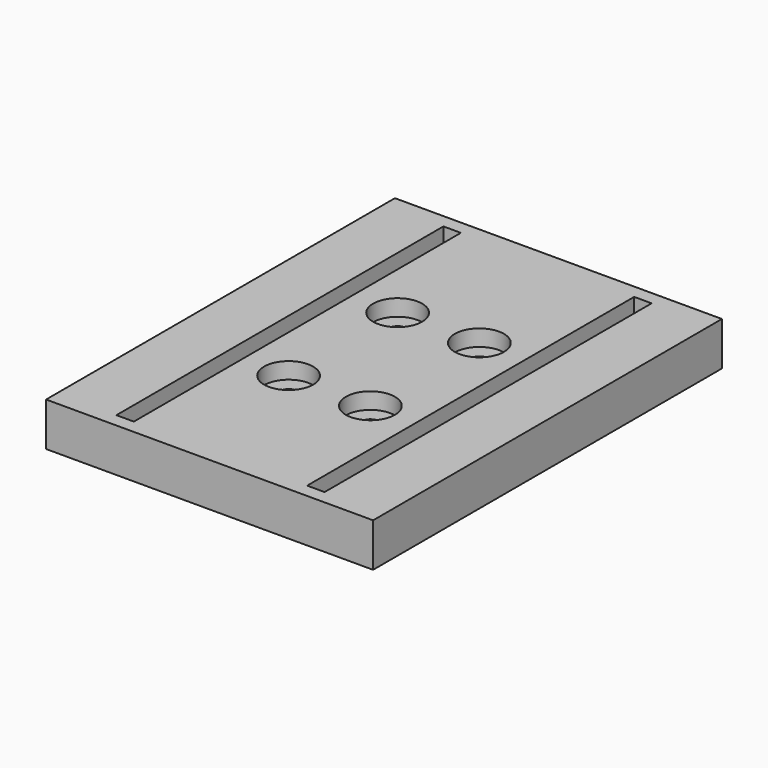
from build123d import *

# Parameters (mm, degrees)
F0_W     = 60
F0_H     = 80
F0_R     = 4.5
F1_DEPTH = 8
F0_R_2   = 1.6
F2_DEPTH = 5
F3_W     = 1.4
F3_H     = 75
F4_DEPTH = 5
F3_W_2   = 1.6
F3_W_3   = 3.2
F5_DEPTH = 25


with BuildPart() as f1:
    # F0 (on Top) → F1 (new body)
    with BuildSketch(Plane.XY):
        Rectangle(F0_W, F0_H)
        with Locations((-7.5, -12.5)):
            Circle(F0_R, mode=Mode.SUBTRACT)
        with Locations((7.5, -12.5)):
            Circle(F0_R, mode=Mode.SUBTRACT)
        with Locations((-7.5, 12.5)):
            Circle(F0_R, mode=Mode.SUBTRACT)
        with Locations((7.5, 12.5)):
            Circle(F0_R, mode=Mode.SUBTRACT)
    extrude(amount=F1_DEPTH)

    # F0 (on Top) → F2 (join)
    with BuildSketch(Plane.XY):
        with Locations((-7.5, 12.5)):
            Circle(F0_R)
        with Locations((-7.5, 12.5)):
            Circle(F0_R_2, mode=Mode.SUBTRACT)
        with Locations((-7.5, -12.5)):
            Circle(F0_R)
        with Locations((-7.5, -12.5)):
            Circle(F0_R_2, mode=Mode.SUBTRACT)
        with Locations((7.5, -12.5)):
            Circle(F0_R)
        with Locations((7.5, -12.5)):
            Circle(F0_R_2, mode=Mode.SUBTRACT)
        with Locations((7.5, 12.5)):
            Circle(F0_R)
        with Locations((7.5, 12.5)):
            Circle(F0_R_2, mode=Mode.SUBTRACT)
    extrude(amount=F2_DEPTH)

    # F3 (on face) → F4 (cut)
    with BuildSketch(Plane(origin=(0, 0, 0), x_dir=(1, 0, 0), z_dir=(0, 0, -1))):
        with Locations((-19.8, 0)):
            Rectangle(F3_W, F3_H)
        with Locations((-15.2, 0)):
            Rectangle(F3_W, F3_H)
        with Locations((15.2, 0)):
            Rectangle(F3_W, F3_H)
        with Locations((19.8, 0)):
            Rectangle(F3_W, F3_H)
    extrude(amount=-F4_DEPTH, mode=Mode.SUBTRACT)

    # F3 (on face) → F5 (cut)
    with BuildSketch(Plane(origin=(0, 0, 0), x_dir=(1, 0, 0), z_dir=(0, 0, -1))):
        with Locations((-18.3, 0)):
            Rectangle(F3_W_2, F3_H)
        with Locations((-16.7, 0)):
            Rectangle(F3_W_2, F3_H)
        with Locations((17.5, 0)):
            Rectangle(F3_W_3, F3_H)
    extrude(amount=-F5_DEPTH, mode=Mode.SUBTRACT)


solid = f1.part
